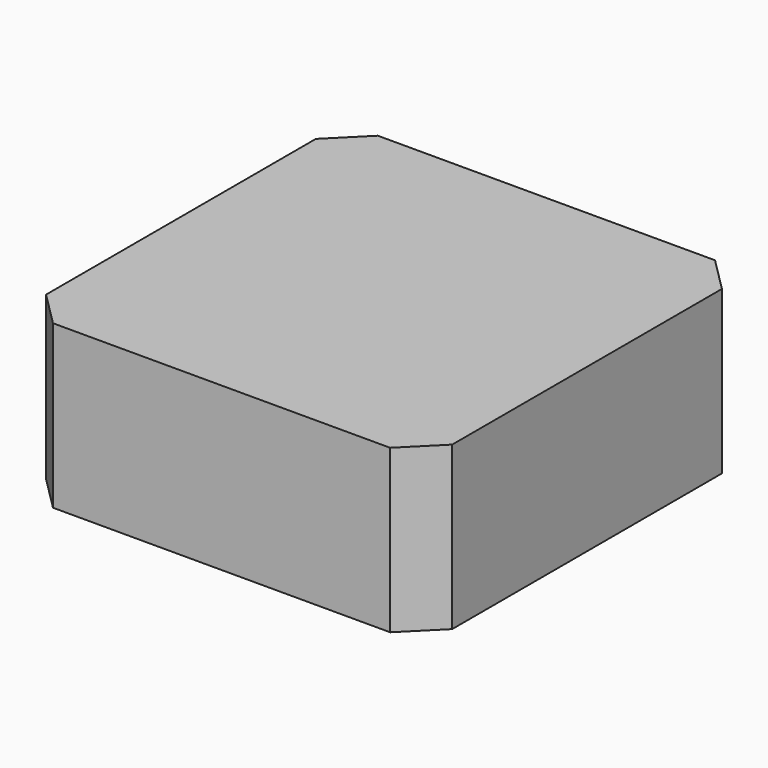
from build123d import *

# Parameters (mm, degrees)
PAD_DEPTH = 10


with BuildPart() as part:
    # Sketch → Pad (new body)
    with BuildSketch(Plane.XY):
        Polygon((-12.5, 10.37868), (-12.5, -10.37868), (-10.37868, -12.5), (10.37868, -12.5), (12.5, -10.37868), (12.5, 10.37868), (10.37868, 12.5), (-10.37868, 12.5), align=None)
    extrude(amount=PAD_DEPTH)


solid = part.part
